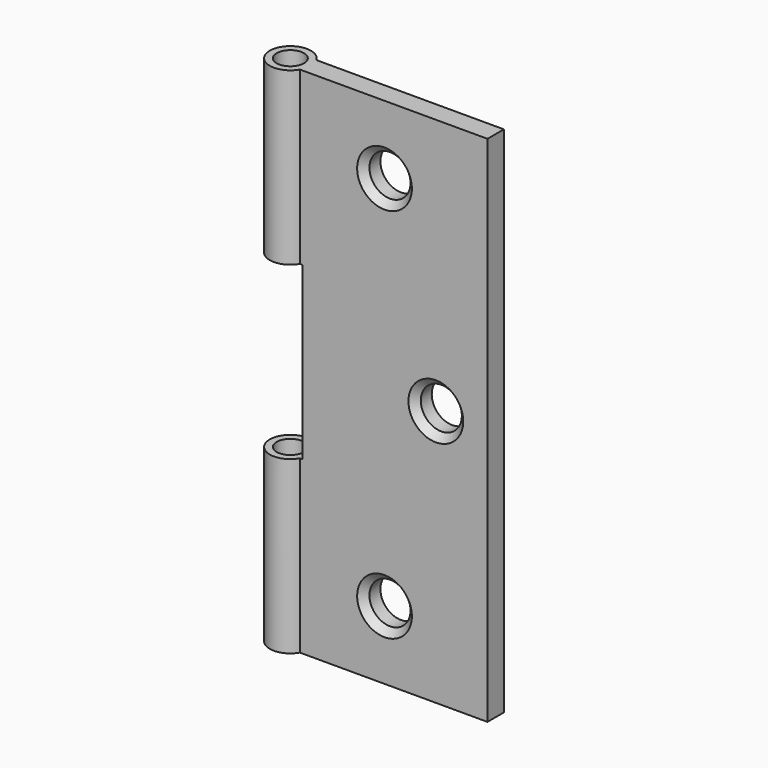
from build123d import *

# Parameters (mm, degrees)
F0_R           = 2
F1_DEPTH       = 75
F2_W           = 3
F2_H           = 25
F3_DEPTH       = 12.5
F5_D           = 6
F5_CSINK_D     = 8
F5_CSINK_ANGLE = 90


with BuildPart() as f1:
    # F0 (on Top) → F1 (new body)
    with BuildSketch(Plane.XY):
        with BuildLine():
            Line((30, -1.5), (30, 1.5))
            Line((30, 1.5), (2.5980762114, 1.5))
            ThreePointArc((2.5980762114, 1.5), (-3, 0), (2.5980762114, -1.5))
            Line((2.5980762114, -1.5), (30, -1.5))
        make_face()
        Circle(F0_R, mode=Mode.SUBTRACT)
    extrude(amount=F1_DEPTH)

    # F2 (on Front) → F3 (cut, symmetric)
    with BuildSketch(Plane.XZ):
        with Locations((-1.5, 37.5)):
            Rectangle(F2_W, F2_H)
        with Locations((1.5, 37.5)):
            Rectangle(F2_W, F2_H)
    extrude(amount=F3_DEPTH, both=True, mode=Mode.SUBTRACT)

    # F5 (through all)
    with Locations(Plane.XZ.offset(1.5)):
        with Locations((14.9555867538, 65), (22.4555867538, 37.5), (14.9555867538, 10)):
            CounterSinkHole(F5_D / 2, F5_CSINK_D / 2, counter_sink_angle=F5_CSINK_ANGLE)


solid = f1.part
